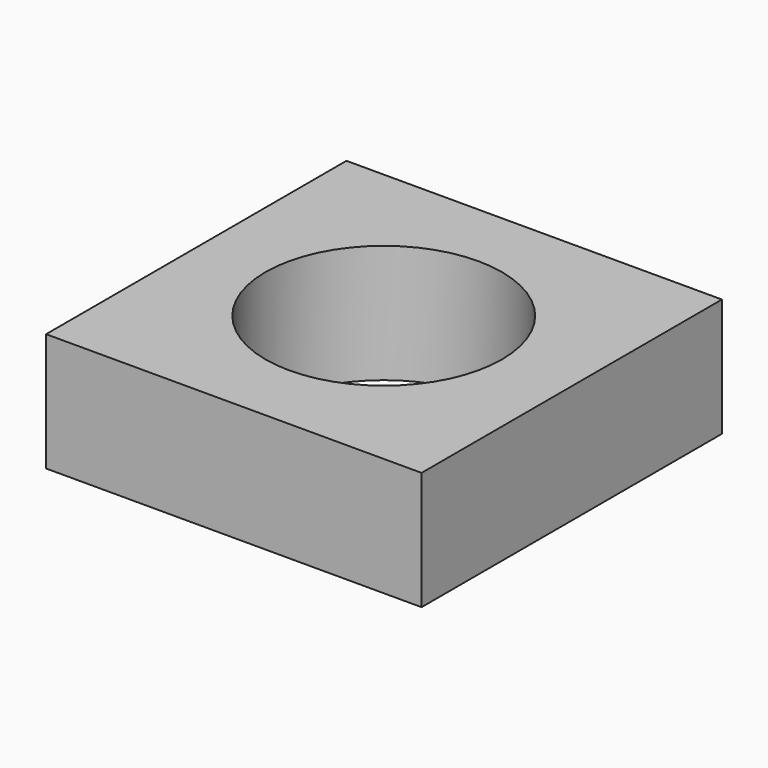
from build123d import *

# Parameters (mm, degrees)
CYLINDER034_R     = 3
CYLINDER034_DEPTH = 3
BOX013_W          = 9.525
BOX013_H          = 9.525
BOX013_DEPTH      = 3


with BuildPart() as cylinder034:
    # Cylinder034 → Cylinder034 (new body)
    with BuildSketch(Plane(origin=(6.35, 6.35, 0), x_dir=(1, 0, 0), z_dir=(0, 0, 1))):
        Circle(CYLINDER034_R)
    extrude(amount=CYLINDER034_DEPTH)


with BuildPart() as m6_nut:
    # Box013 → Box013 (new body)
    with BuildSketch(Plane(origin=(1.62052, 1.55448, 0), x_dir=(1, 0, 0), z_dir=(0, 0, 1))):
        with Locations((4.7625, 4.7625)):
            Rectangle(BOX013_W, BOX013_H)
    extrude(amount=BOX013_DEPTH)

    # Cut011: cut Cylinder034
    add(cylinder034.part, mode=Mode.SUBTRACT)


with BuildPart() as m6_nut_1:
    # Cut011 placement: moved
    add(m6_nut.part.moved(Location((0, -40.41648, 0))))


solid = m6_nut_1.part
